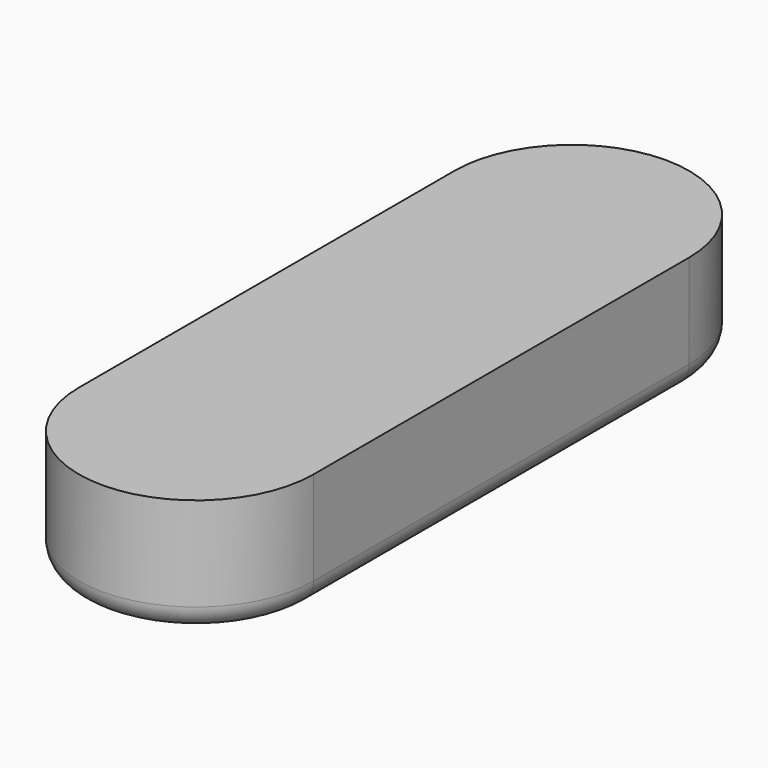
from build123d import *

# Parameters (mm, degrees)
F0_W     = 101.6
F0_H     = 101.6
F1_DEPTH = 50.8
F3_DEPTH = 12.7
F4_R     = 7.62
F4_R_2   = 6.985
F5_DEPTH = 1.27
F6_SIZE  = 0.762
F7_R     = 0.762
F9_DEPTH = 25.4
F10_R    = 2.54


with BuildPart() as f1:
    # F0 (on Top) → F1 (new body)
    with BuildSketch(Plane.XY):
        Rectangle(F0_W, F0_H)
    extrude(amount=F1_DEPTH)

    # F2 (on face) → F3 (cut)
    with BuildSketch(Plane.XY.offset(50.8)):
        with BuildLine():
            Line((-12.7, 25.4), (12.7, 25.4))
            ThreePointArc((12.7, 25.4), (0, 38.1), (-12.7, 25.4))
        make_face()
        with BuildLine():
            ThreePointArc((-12.7, 25.4), (0, 12.7), (12.7, 25.4))
            Line((12.7, 25.4), (-12.7, 25.4))
        make_face()
        with BuildLine():
            ThreePointArc((-12.7, -25.4), (0, -12.7), (12.7, -25.4))
            Line((12.7, -25.4), (12.7, 25.4))
            ThreePointArc((12.7, 25.4), (0, 12.7), (-12.7, 25.4))
            Line((-12.7, 25.4), (-12.7, -25.4))
        make_face()
        with BuildLine():
            Line((-12.7, -25.4), (12.7, -25.4))
            ThreePointArc((12.7, -25.4), (0, -12.7), (-12.7, -25.4))
        make_face()
        with BuildLine():
            ThreePointArc((-12.7, -25.4), (0, -38.1), (12.7, -25.4))
            Line((12.7, -25.4), (-12.7, -25.4))
        make_face()
    extrude(amount=-F3_DEPTH, mode=Mode.SUBTRACT)

    # F4 (on face) → F5 (cut)
    with BuildSketch(Plane.XY.offset(38.1)):
        with Locations((0, -25.4)):
            Circle(F4_R)
        with Locations((0, -25.4)):
            Circle(F4_R_2, mode=Mode.SUBTRACT)
    extrude(amount=-F5_DEPTH, mode=Mode.SUBTRACT)

    # F6
    f6_edges = [f1.edges().sort_by_distance(p)[0] for p in [
        (-7.62, -25.4, 38.1),
        (0, -50.8, 0),
    ]]
    chamfer(f6_edges, length=F6_SIZE)

    # F7
    f7_edges = [f1.edges().sort_by_distance(p)[0] for p in [
        (-6.985, -25.4, 38.1),
    ]]
    fillet(f7_edges, radius=F7_R)

    # F10
    f10_edges = [f1.edges().sort_by_distance(p)[0] for p in [
        (0, -38.1, 38.1),
    ]]
    fillet(f10_edges, radius=F10_R)


with BuildPart() as f9:
    # F8 (on face) → F9 (new body)
    with BuildSketch(Plane.XY.offset(50.8)):
        with BuildLine():
            ThreePointArc((-12.7, -25.4), (0, -38.1), (12.7, -25.4))
            Line((12.7, -25.4), (12.7, 25.4))
            ThreePointArc((12.7, 25.4), (0, 38.1), (-12.7, 25.4))
            Line((-12.7, 25.4), (-12.7, -25.4))
        make_face()
    extrude(amount=-F9_DEPTH)

    # F11: cut F1
    add(f1.part, mode=Mode.SUBTRACT)


solid = f9.part
